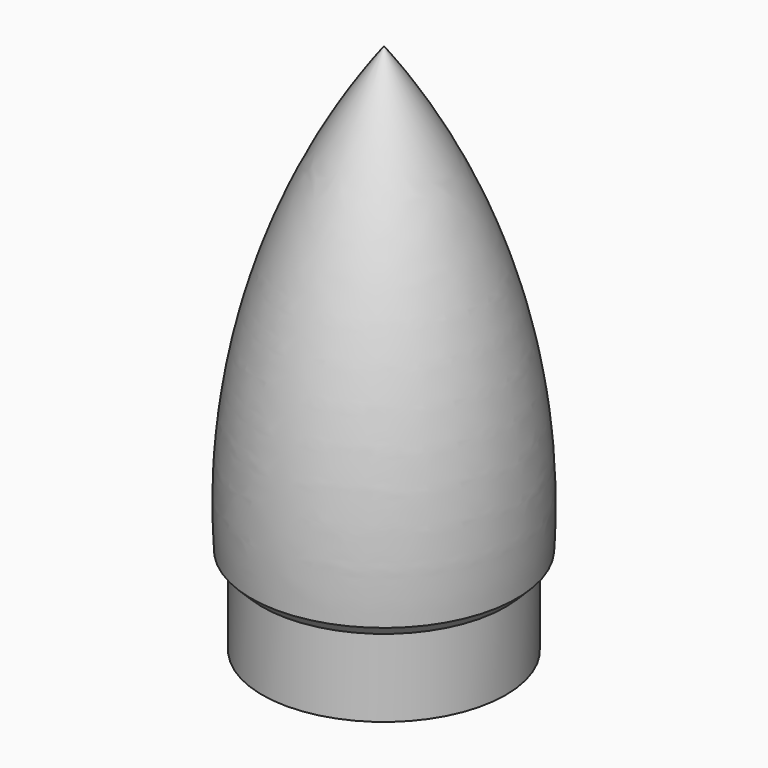
from build123d import *


with BuildPart() as f2:
    # F0 (on Right) → F2 (revolve)
    with BuildSketch(Plane.YZ):
        with BuildLine():
            Line((-13.75, 8.75), (-13.75, 0))
            Line((-13.75, 0), (-11.75, 0))
            Line((-11.75, 0), (-11.75, 12))
            Line((-11.75, 12), (-13, 12))
            ThreePointArc((-13, 12), (-10.1139005186, 35.3422425205), (0, 56.5766220124))
            Line((0, 56.5766220124), (0, 60))
            ThreePointArc((0, 60), (-11.9315253093, 36.3294575928), (-15, 10))
            Line((-15, 10), (-13.75, 10))
            Line((-13.75, 10), (-13.75, 8.75))
        make_face()
        Polygon((-15, 10), (-13.75, 8.75), (-13.75, 10), align=None)
    revolve(axis=Axis((0, 0, 35.8690097928), (0, 0, -1)))


solid = f2.part
